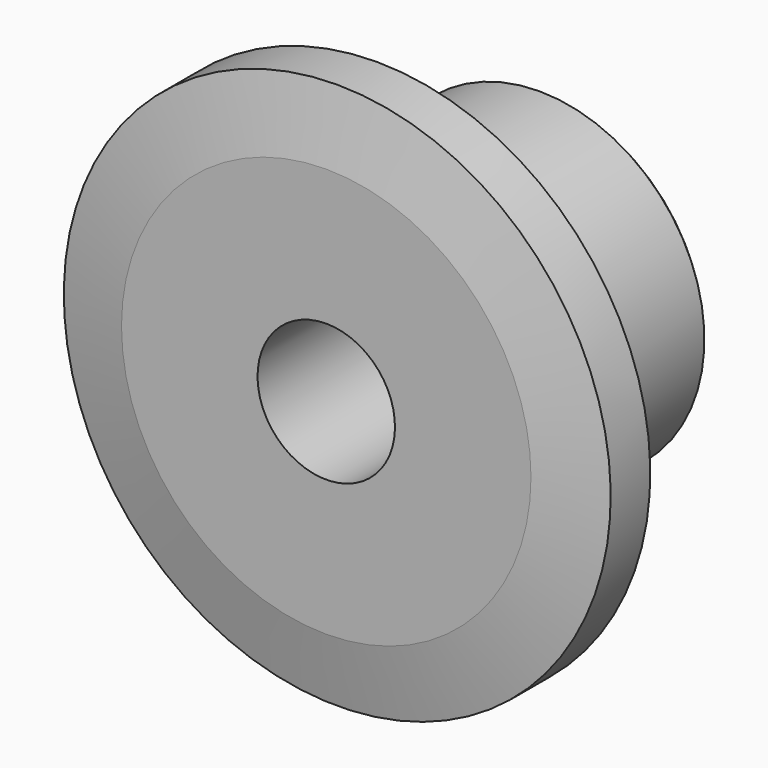
from build123d import *

# Parameters (mm, degrees)
F2_R     = 0.25
F3_SIZE  = 0.3
F4_SIZE2 = 2.5
F4_SIZE  = 0.5


with BuildPart() as f1:
    # F0 (on Right) → F1 (revolve)
    with BuildSketch(Plane.YZ):
        Polygon((0, 9.95), (0, 2.5), (10, 2.5), (10, 6), (2.8, 6), (2.8, 9.95), align=None)
    revolve(axis=Axis((0, 5.3417352028, 0), (0, 1, 0)))

    # F2
    f2_edges = [f1.edges().sort_by_distance(p)[0] for p in [
        (0, 2.8, -6),
    ]]
    fillet(f2_edges, radius=F2_R)

    # F3
    f3_edges = [f1.edges().sort_by_distance(p)[0] for p in [
        (0, 10, -6),
    ]]
    chamfer(f3_edges, length=F3_SIZE)

    # F4
    f4_edges = [f1.edges().sort_by_distance(p)[0] for p in [
        (0, 0, -9.95),
        (0, 2.8, -9.95),
    ]]
    f4_side = f1.faces().sort_by_distance((0, 1.4, -9.95))[0]
    chamfer(f4_edges, length=F4_SIZE, length2=F4_SIZE2, reference=f4_side)


solid = f1.part
